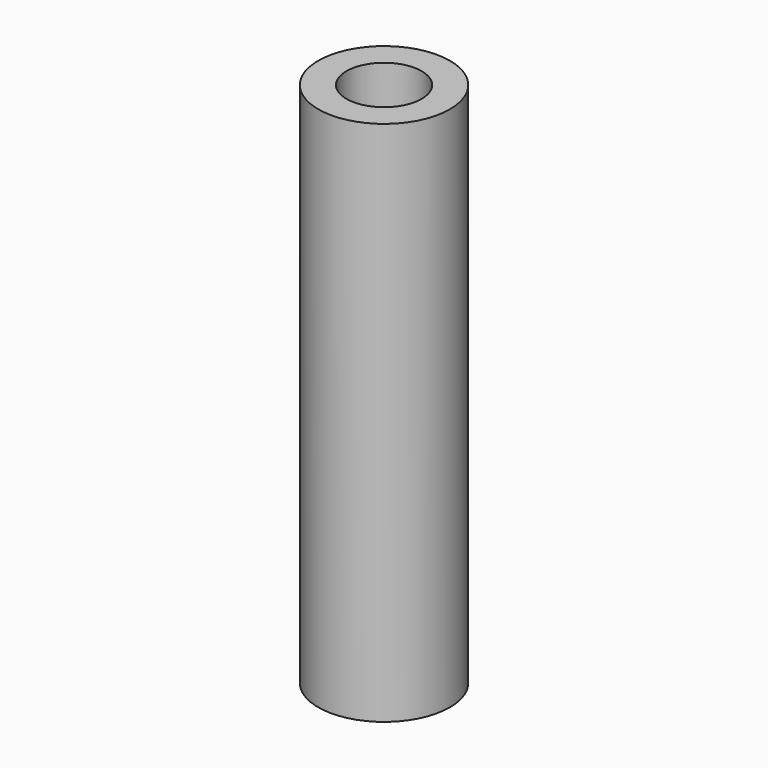
from build123d import *

# Parameters (mm, degrees)
F0_R     = 11.1125
F1_DEPTH = 88.9
F2_R     = 6.35
F3_DEPTH = 88.9
F4_R     = 1.7907
F5_DEPTH = 22.225


with BuildPart() as f1:
    # F0 (on Top) → F1 (new body)
    with BuildSketch(Plane.XY):
        Circle(F0_R)
    extrude(amount=F1_DEPTH)

    # F2 (on face) → F3 (cut)
    with BuildSketch(Plane.XY.offset(88.9)):
        Circle(F2_R)
    extrude(amount=-F3_DEPTH, mode=Mode.SUBTRACT)

    # F4 (on Front) → F5 (cut)
    with BuildSketch(Plane.XZ):
        with Locations((0, 12.7)):
            Circle(F4_R)
        with Locations((0, 76.2)):
            Circle(F4_R)
    extrude(amount=-F5_DEPTH, mode=Mode.SUBTRACT)


solid = f1.part
